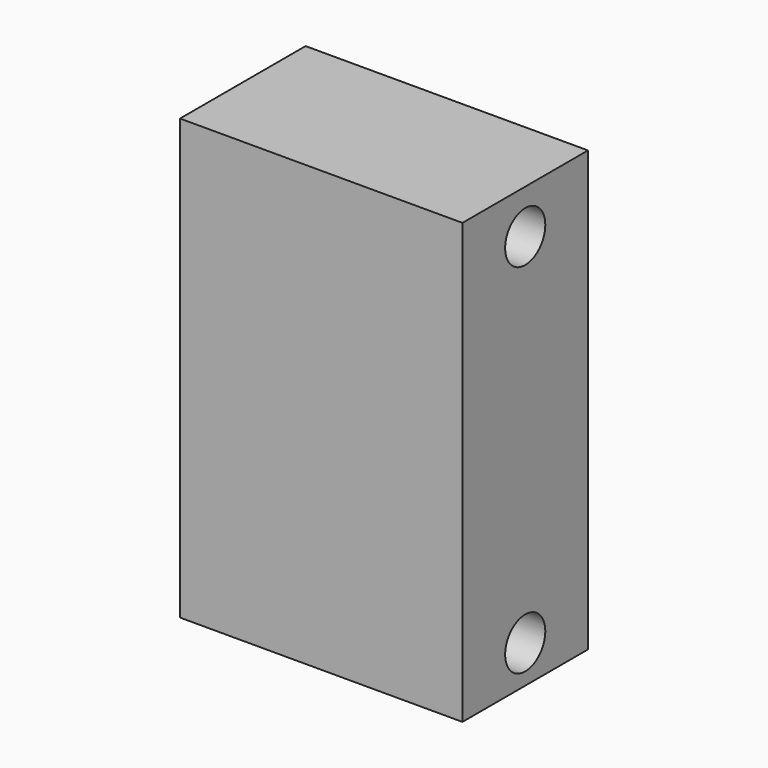
from build123d import *

# Parameters (mm, degrees)
F0_W     = 45
F0_H     = 70
F1_DEPTH = 25
F2_R     = 4
F3_DEPTH = 45.001


with BuildPart() as f1:
    # F0 (on Front) → F1 (new body)
    with BuildSketch(Plane.XZ):
        Rectangle(F0_W, F0_H)
    extrude(amount=F1_DEPTH)

    # F2 (on face) → F3 (cut, through all)
    with BuildSketch(Plane.YZ.offset(22.5)):
        with Locations((-12.5, 28)):
            Circle(F2_R)
        with Locations((-12.5, -29)):
            Circle(F2_R)
    extrude(amount=-F3_DEPTH, mode=Mode.SUBTRACT)


solid = f1.part
